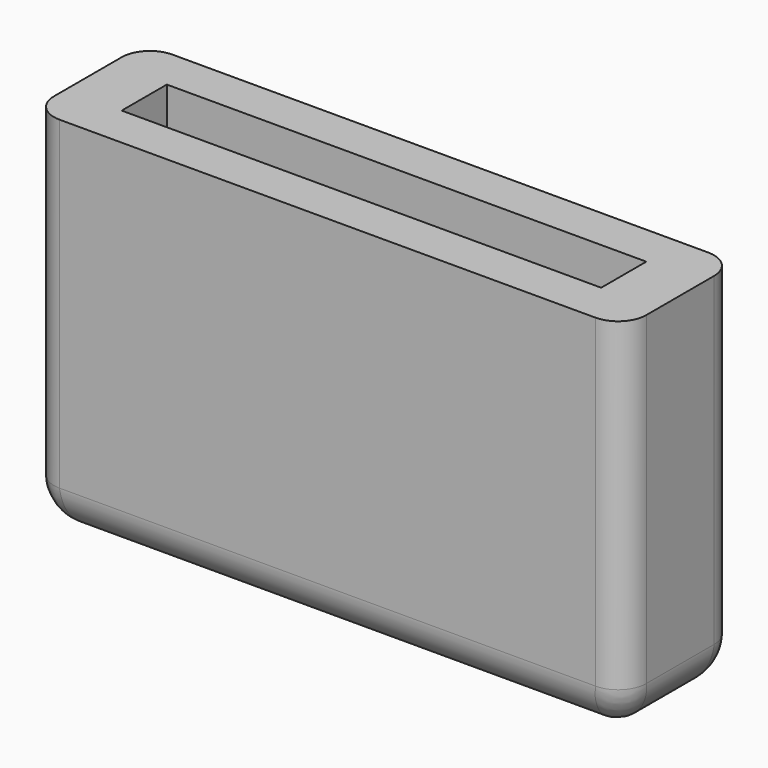
from build123d import *

# Parameters (mm, degrees)
SKETCH_W     = 21
SKETCH_H     = 5
PAD_DEPTH    = 13
SKETCH001_W  = 17
SKETCH001_H  = 2
POCKET_DEPTH = 10
FILLET_R     = 1.5
FILLET001_R  = 1


with BuildPart() as part:
    # Sketch → Pad (new body)
    with BuildSketch(Plane.XY):
        Rectangle(SKETCH_W, SKETCH_H)
    extrude(amount=PAD_DEPTH)

    # Sketch001 (on Face6 of Pad) → Pocket (cut)
    with BuildSketch(Plane.XY.offset(13)):
        Rectangle(SKETCH001_W, SKETCH001_H)
    extrude(amount=-POCKET_DEPTH, mode=Mode.SUBTRACT)

    # Fillet
    fillet_edges = [part.edges().sort_by_distance(p)[0] for p in [
        (0, 2.5, 0),
        (0, -2.5, 0),
        (10.5, 0, 0),
        (-10.5, 0, 0),
    ]]
    fillet(fillet_edges, radius=FILLET_R)

    # Fillet001
    fillet001_edges = [part.edges().sort_by_distance(p)[0] for p in [
        (-10.5, 2.5, 7.25),
        (-10.5, -2.5, 7.25),
        (10.5, 2.5, 7.25),
        (10.5, -2.5, 7.25),
    ]]
    fillet(fillet001_edges, radius=FILLET001_R)


solid = part.part
